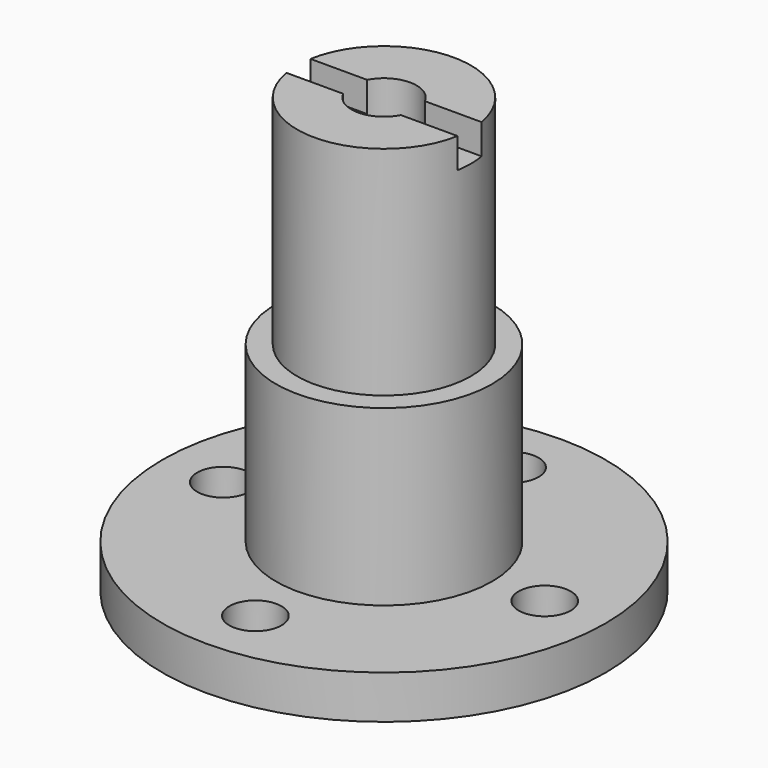
from build123d import *

# Parameters (mm, degrees)
F0_R     = 7.9
F0_R_2   = 6.35
F1_DEPTH = 15.875
F0_R_3   = 2.38125
F2_DEPTH = 31.75
F0_R_4   = 16.1925
F0_R_5   = 1.905
F4_DEPTH = 3.175
F6_DEPTH = 2.2


with BuildPart() as f1:
    # F0 (on Top) → F1 (new body)
    with BuildSketch(Plane.XY):
        Circle(F0_R)
        Circle(F0_R_2, mode=Mode.SUBTRACT)
    extrude(amount=F1_DEPTH)

    # F0 (on Top) → F2 (join)
    with BuildSketch(Plane.XY):
        Circle(F0_R_2)
        Circle(F0_R_3, mode=Mode.SUBTRACT)
    extrude(amount=F2_DEPTH)

    # F0 (on Top) → F4 (join)
    with BuildSketch(Plane.XY):
        Circle(F0_R_4)
        with Locations((0, -11.7475)):
            Circle(F0_R_5, mode=Mode.SUBTRACT)
        with Locations((-11.7475, 0)):
            Circle(F0_R_5, mode=Mode.SUBTRACT)
        Circle(F0_R, mode=Mode.SUBTRACT)
        with Locations((11.7475, 0)):
            Circle(F0_R_5, mode=Mode.SUBTRACT)
        with Locations((0, 11.7475)):
            Circle(F0_R_5, mode=Mode.SUBTRACT)
    extrude(amount=F4_DEPTH)

    # F5 (on face) → F6 (cut)
    with BuildSketch(Plane.XY.offset(31.75)):
        with BuildLine():
            ThreePointArc((6.35, 0), (6.3259541524, 0.5520906279), (6.2539987208, 1.1))
            Line((6.2539987208, 1.1), (2.1119544414, 1.1))
            ThreePointArc((2.1119544414, 1.1), (2.3129465057, 0.5662420193), (2.38125, 0))
            ThreePointArc((2.38125, 0), (2.3129465057, -0.5662420193), (2.1119544414, -1.1))
            Line((2.1119544414, -1.1), (6.2539987208, -1.1))
            ThreePointArc((6.2539987208, -1.1), (6.3259541524, -0.5520906279), (6.35, 0))
        make_face()
        with BuildLine():
            Line((-2.1119544414, 1.1), (-6.2539987208, 1.1))
            ThreePointArc((-6.2539987208, 1.1), (-6.35, 0), (-6.2539987208, -1.1))
            Line((-6.2539987208, -1.1), (-2.1119544414, -1.1))
            ThreePointArc((-2.1119544414, -1.1), (-2.38125, 0), (-2.1119544414, 1.1))
        make_face()
    extrude(amount=-F6_DEPTH, mode=Mode.SUBTRACT)


solid = f1.part
